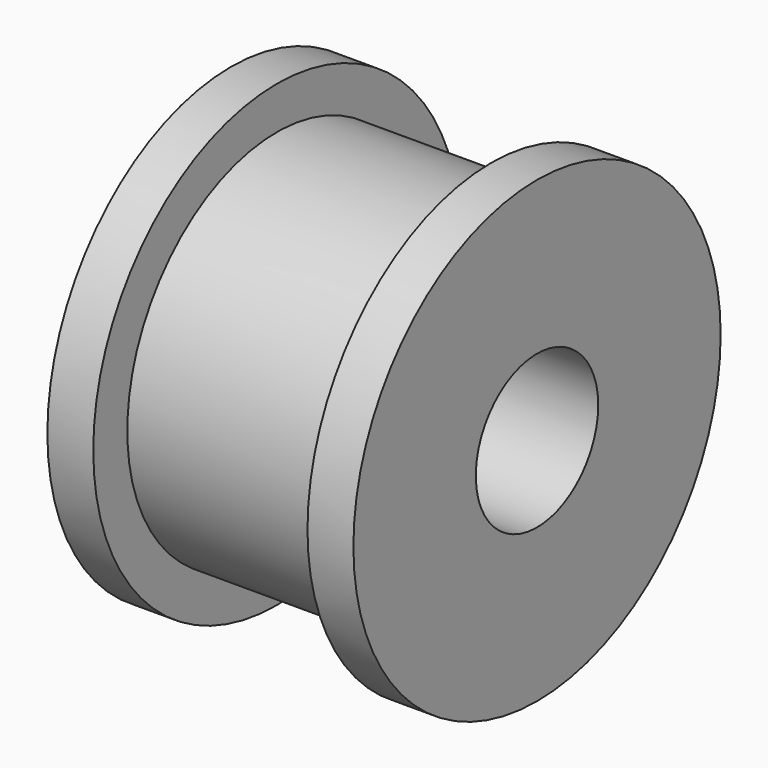
from build123d import *


with BuildPart() as part:
    # Sketch069 → Revolution002 (revolve)
    with BuildSketch(Plane.XY):
        Polygon((-3.5, 7.5), (-3.5, 6.11), (3.5, 6.11), (3.5, 7.5), (5, 7.5), (5, 2.5), (-5, 2.5), (-5, 7.5), align=None)
    revolve(axis=Axis((0, 0, 0), (1, 0, 0)))


solid = part.part
